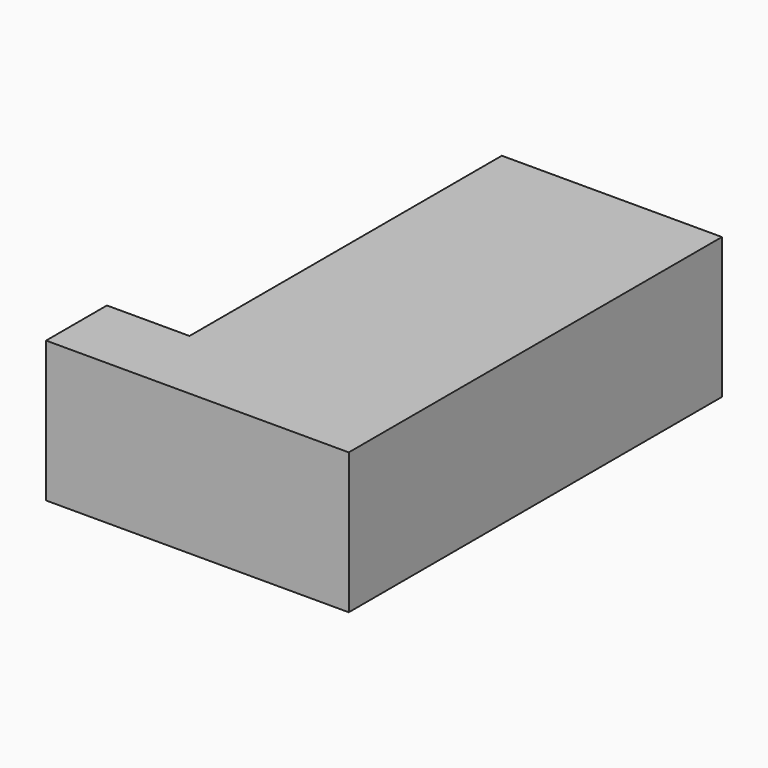
from build123d import *

# Parameters (mm, degrees)
F0_W      = 60.731009
F0_H      = 107.71951
F0_W_2    = 22.791378
F0_H_2    = 20.984024
F1_DEPTH  = 38.848586
F1_FACE_W = 20.984024
F1_FACE_H = 38.848586
F2_DEPTH  = 27.409891
F3_W      = 20.984024
F3_H      = 38.848586
F4_DEPTH  = 31.743571


with BuildPart() as f1:
    # F0 (on Top) → F1 (new body)
    with BuildSketch(Plane.XY):
        with Locations((9.377531, 12.187466)):
            Rectangle(F0_W, F0_H)
        with Locations((-32.383662, -52.164301)):
            Rectangle(F0_W_2, F0_H_2)
        with Locations((9.377531, -52.164301)):
            Rectangle(F0_W, F0_H_2)
    extrude(amount=F1_DEPTH)

    # F1_face (on face) → F2 (join)
    with BuildSketch(Plane(origin=(-43.779351, -52.164301, 19.424293), x_dir=(0, -1, 0), z_dir=(-1, 0, 0))):
        Rectangle(F1_FACE_W, F1_FACE_H)
    extrude(amount=-F2_DEPTH)

    # F3 (on face) → F4 (join)
    with BuildSketch(Plane(origin=(-43.779351, 0, 0), x_dir=(0, -1, 0), z_dir=(-1, 0, 0))):
        with Locations((52.164301, 19.424293)):
            Rectangle(F3_W, F3_H)
    extrude(amount=-F4_DEPTH)


solid = f1.part
